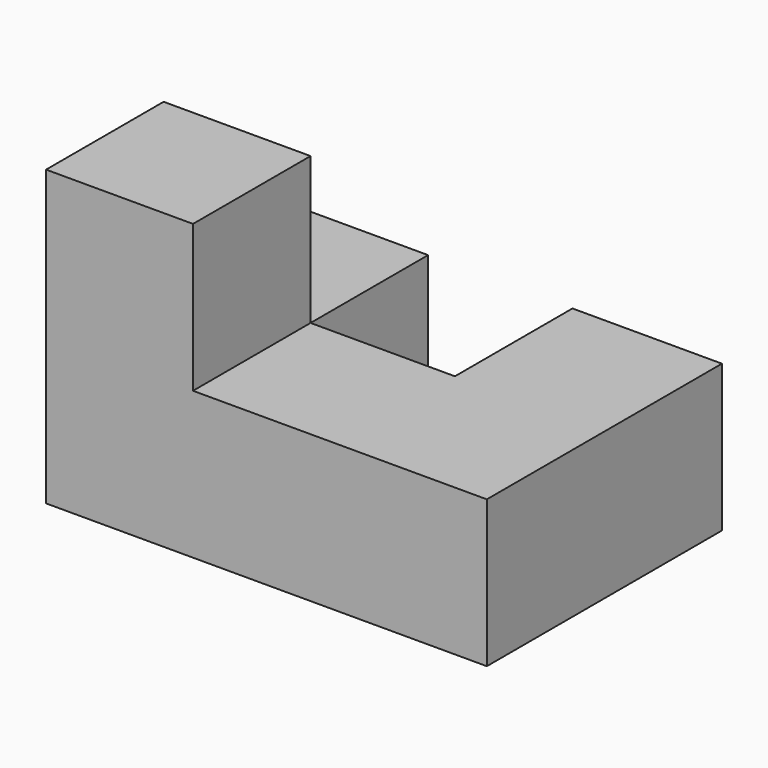
from build123d import *

# Parameters (mm, degrees)
F0_W     = 12.7
F0_H     = 12.7
F1_DEPTH = 12.7
F2_DEPTH = 25.4
F3_W     = 12.9194361269
F3_H     = 12.7
F4_DEPTH = 12.7
F5_W     = 12.7
F5_H     = 12.7
F6_DEPTH = 12.7
F7_W     = 12.7
F7_H     = 12.7
F8_DEPTH = 12.7
F9_T     = -2.54


with BuildPart() as f1:
    # F0 (on Front) → F1 (new body)
    with BuildSketch(Plane.XZ):
        with Locations((0.4788246006, 3.6696097578)):
            Rectangle(F0_W, F0_H)
    extrude(amount=F1_DEPTH)

    # F2 (add): a face of the model
    f2_faces = [f1.faces().sort_by_distance(p)[0] for p in [
        (6.8288246006, -6.35, 3.6696097578),
    ]]
    extrude(f2_faces, amount=F2_DEPTH)

    # F3 (on face) → F4 (join)
    with BuildSketch(Plane(origin=(0, 0, 0), x_dir=(-1, 0, 0), z_dir=(0, 1, 0))):
        with Locations((-25.7691065371, 3.6696097578)):
            Rectangle(F3_W, F3_H)
    extrude(amount=F4_DEPTH)

    # F5 (on face) → F6 (join)
    with BuildSketch(Plane(origin=(0, 0, 0), x_dir=(-1, 0, 0), z_dir=(0, 1, 0))):
        with Locations((-0.4788246006, 3.6696097578)):
            Rectangle(F5_W, F5_H)
    extrude(amount=F6_DEPTH)

    # F7 (on face) → F8 (join)
    with BuildSketch(Plane.XY.offset(10.0196097578)):
        with Locations((0.4788246006, -6.35)):
            Rectangle(F7_W, F7_H)
    extrude(amount=F8_DEPTH)

    # F9 (hollow: no face is removed)
    offset(amount=F9_T, kind=Kind.INTERSECTION, mode=Mode.SUBTRACT)


solid = f1.part
